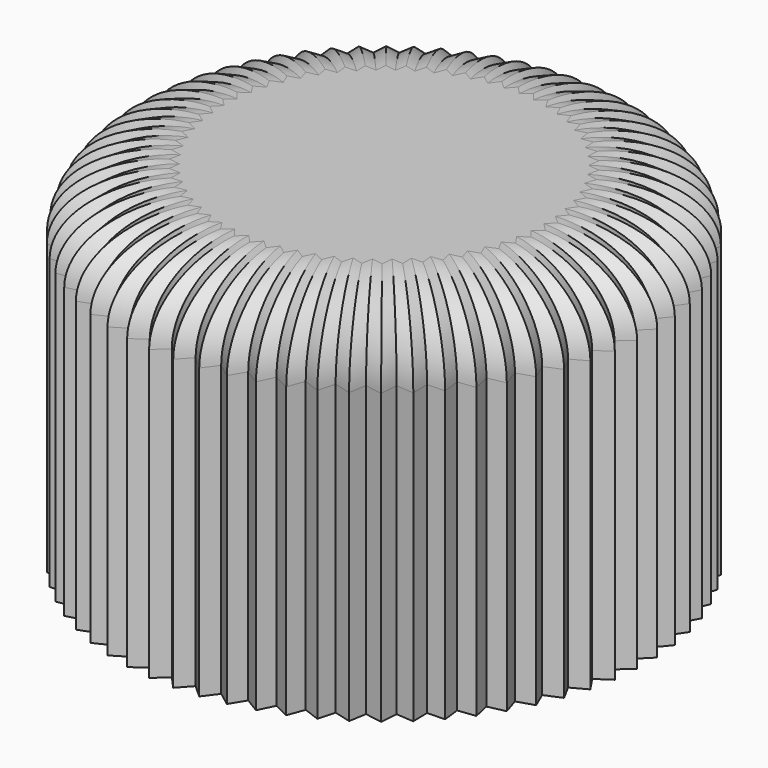
from build123d import *

# Parameters (mm, degrees)
F1_START = 1
F0_R     = 6
F1_DEPTH = 11
F2_START = 7
F0_R_2   = 4
F2_DEPTH = 5
F3_START = 11
F3_DEPTH = 1
F4_R     = 2


with BuildPart() as f1:
    # F0 (on Top) → F1 (new body)
    with BuildSketch(Plane.XY.offset(F1_START)):
        Polygon((-8.1901446762, 0.3901446762), (-7.8, 0), (-8.1901446762, -0.3901446762), (-7.7646809961, -0.7414371378), (-8.1159734577, -1.1669008179), (-7.6590438386, -1.476159706), (-7.9683027268, -1.9330893251), (-7.4840451942, -2.1975139434), (-7.7484698125, -2.681771476), (-7.2412698775, -2.8989671542), (-7.4584655557, -3.4061670891), (-6.9329164995, -3.5741668695), (-7.1009162799, -4.0997159257), (-6.5617775561, -4.2169983762), (-6.6790600066, -4.7561370999), (-6.131214139, -4.8216400925), (-6.1967171316, -5.3694859601), (-5.6451254972, -5.3826162896), (-5.6582558267, -5.9342079239), (-5.1079137248, -5.89484668), (-5.0685524808, -6.4451887819), (-4.5244438947, -6.353692426), (-4.4329475388, -6.8978010121), (-3.9, -6.7549981495), (-3.7571971374, -7.2879456883), (-3.2402371014, -7.0951295638), (-3.0474209769, -7.6120895997), (-2.5511301139, -7.371006386), (-2.3100469001, -7.867297249), (-1.838919697, -7.5801302329), (-1.5517526809, -8.0512574361), (-1.1100557385, -7.7206072467), (-0.7794055491, -8.1623041891), (-0.3711389434, -7.7911652456), (0, -8.1994318513), (0.3711389434, -7.7911652456), (0.7794055491, -8.1623041891), (1.1100557385, -7.7206072467), (1.5517526809, -8.0512574361), (1.838919697, -7.5801302329), (2.3100469001, -7.867297249), (2.5511301139, -7.371006386), (3.0474209769, -7.6120895997), (3.2402371014, -7.0951295638), (3.7571971374, -7.2879456883), (3.9, -6.7549981495), (4.4329475388, -6.8978010121), (4.5244438947, -6.353692426), (5.0685524808, -6.4451887819), (5.1079137248, -5.89484668), (5.6582558267, -5.9342079239), (5.6451254972, -5.3826162896), (6.1967171316, -5.3694859601), (6.131214139, -4.8216400925), (6.6790600066, -4.7561370999), (6.5617775561, -4.2169983762), (7.1009162799, -4.0997159257), (6.9329164995, -3.5741668695), (7.4584655557, -3.4061670891), (7.2412698775, -2.8989671542), (7.7484698125, -2.681771476), (7.4840451942, -2.1975139434), (7.9683027268, -1.9330893251), (7.6590438386, -1.476159706), (8.1159734577, -1.1669008179), (7.7646809961, -0.7414371378), (8.1901446762, -0.3901446762), (7.8, 0), (8.1901446762, 0.3901446762), (7.7646809961, 0.7414371378), (8.1159734577, 1.1669008179), (7.6590438386, 1.476159706), (7.9683027268, 1.9330893251), (7.4840451942, 2.1975139434), (7.7484698125, 2.681771476), (7.2412698775, 2.8989671542), (7.4584655557, 3.4061670891), (6.9329164995, 3.5741668695), (7.1009162799, 4.0997159257), (6.5617775561, 4.2169983762), (6.6790600066, 4.7561370999), (6.131214139, 4.8216400925), (6.1967171316, 5.3694859601), (5.6451254972, 5.3826162896), (5.6582558267, 5.9342079239), (5.1079137248, 5.89484668), (5.0685524808, 6.4451887819), (4.5244438947, 6.353692426), (4.4329475388, 6.8978010121), (3.9, 6.7549981495), (3.7571971374, 7.2879456883), (3.2402371014, 7.0951295638), (3.0474209769, 7.6120895997), (2.5511301139, 7.371006386), (2.3100469001, 7.867297249), (1.838919697, 7.5801302329), (1.5517526809, 8.0512574361), (1.1100557385, 7.7206072467), (0.7794055491, 8.1623041891), (0.3711389434, 7.7911652456), (0, 8.1994318513), (-0.3711389434, 7.7911652456), (-0.7794055491, 8.1623041891), (-1.1100557385, 7.7206072467), (-1.5517526809, 8.0512574361), (-1.838919697, 7.5801302329), (-2.3100469001, 7.867297249), (-2.5511301139, 7.371006386), (-3.0474209769, 7.6120895997), (-3.2402371014, 7.0951295638), (-3.7571971374, 7.2879456883), (-3.9, 6.7549981495), (-4.4329475388, 6.8978010121), (-4.5244438947, 6.353692426), (-5.0685524808, 6.4451887819), (-5.1079137248, 5.89484668), (-5.6582558267, 5.9342079239), (-5.6451254972, 5.3826162896), (-6.1967171316, 5.3694859601), (-6.131214139, 4.8216400925), (-6.6790600066, 4.7561370999), (-6.5617775561, 4.2169983762), (-7.1009162799, 4.0997159257), (-6.9329164995, 3.5741668695), (-7.4584655557, 3.4061670891), (-7.2412698775, 2.8989671542), (-7.7484698125, 2.681771476), (-7.4840451942, 2.1975139434), (-7.9683027268, 1.9330893251), (-7.6590438386, 1.476159706), (-8.1159734577, 1.1669008179), (-7.7646809961, 0.7414371378), align=None)
        Circle(F0_R, mode=Mode.SUBTRACT)
    extrude(amount=F1_DEPTH)

    # F0 (on Top) → F2 (join)
    with BuildSketch(Plane.XY.offset(F2_START)):
        Circle(F0_R)
        Circle(F0_R_2, mode=Mode.SUBTRACT)
        Circle(F0_R_2)
        with BuildLine():
            ThreePointArc((1.5, -2.5980762114), (-3, 0), (1.5, 2.5980762114))
            Line((1.5, 2.5980762114), (1.5, -2.5980762114))
        make_face(mode=Mode.SUBTRACT)
    extrude(amount=F2_DEPTH)

    # F0 (on Top) → F3 (join)
    with BuildSketch(Plane.XY.offset(F3_START)):
        with BuildLine():
            Line((1.5, -2.5980762114), (1.5, 2.5980762114))
            ThreePointArc((1.5, 2.5980762114), (-3, 0), (1.5, -2.5980762114))
        make_face()
    extrude(amount=F3_DEPTH)

    # F4
    f4_edges = [f1.edges().sort_by_distance(p)[0] for p in [
        (6.620419, 4.486568, 12),
        (6.405137, 4.788889, 12),
        (6.163966, 5.095563, 12),
        (5.920921, 5.376051, 12),
        (5.651691, 5.658412, 12),
        (5.383085, 5.914527, 12),
        (5.088233, 6.170018, 12),
        (4.796498, 6.399441, 12),
        (4.478696, 6.625747, 12),
        (4.166474, 6.8264, 12),
        (3.828599, 7.021472, 12),
        (3.498717, 7.191538, 12),
        (3.143829, 7.35361, 12),
        (2.799276, 7.491548, 12),
        (2.430589, 7.619152, 12),
        (2.074483, 7.723714, 12),
        (1.695336, 7.815694, 12),
        (1.330904, 7.885932, 12),
        (0.944731, 7.941456, 12),
        (0.575272, 7.976735, 12),
        (0.185569, 7.995299, 12),
        (-0.185569, 7.995299, 12),
        (-0.575272, 7.976735, 12),
        (-0.944731, 7.941456, 12),
        (-1.330904, 7.885932, 12),
        (-1.695336, 7.815694, 12),
        (-2.074483, 7.723714, 12),
        (-2.430589, 7.619152, 12),
        (-2.799276, 7.491548, 12),
        (-3.143829, 7.35361, 12),
        (-3.498717, 7.191538, 12),
        (-3.828599, 7.021472, 12),
        (-4.166474, 6.8264, 12),
        (-4.478696, 6.625747, 12),
        (-4.796498, 6.399441, 12),
        (-5.088233, 6.170018, 12),
        (-5.383085, 5.914527, 12),
        (-5.651691, 5.658412, 12),
        (-5.920921, 5.376051, 12),
        (-6.163966, 5.095563, 12),
        (-6.405137, 4.788889, 12),
        (-6.620419, 4.486568, 12),
        (-6.831347, 4.158357, 12),
        (-7.016916, 3.836941, 12),
        (-7.195691, 3.490167, 12),
        (-7.349868, 3.152567, 12),
        (-7.49487, 2.790369, 12),
        (-7.616258, 2.439643, 12),
        (-7.726174, 2.065302, 12),
        (-7.813673, 1.704625, 12),
        (-7.887509, 1.32153, 12),
        (-7.940327, 0.954169, 12),
        (-7.977413, 0.565791, 12),
        (-7.995072, 0.195072, 12),
        (-7.995072, -0.195072, 12),
        (-7.977413, -0.565791, 12),
        (-7.940327, -0.954169, 12),
        (-7.887509, -1.32153, 12),
        (-7.813673, -1.704625, 12),
        (-7.726174, -2.065302, 12),
        (-7.616258, -2.439643, 12),
        (-7.49487, -2.790369, 12),
        (-7.349868, -3.152567, 12),
        (-7.195691, -3.490167, 12),
        (-7.016916, -3.836941, 12),
        (-6.831347, -4.158357, 12),
        (-6.620419, -4.486568, 12),
        (-6.405137, -4.788889, 12),
        (-6.163966, -5.095563, 12),
        (-5.920921, -5.376051, 12),
        (-5.651691, -5.658412, 12),
        (-5.383085, -5.914527, 12),
        (-5.088233, -6.170018, 12),
        (-4.796498, -6.399441, 12),
        (-4.478696, -6.625747, 12),
        (-4.166474, -6.8264, 12),
        (-3.828599, -7.021472, 12),
        (-3.498717, -7.191538, 12),
        (-3.143829, -7.35361, 12),
        (-2.799276, -7.491548, 12),
        (-2.430589, -7.619152, 12),
        (-2.074483, -7.723714, 12),
        (-1.695336, -7.815694, 12),
        (-1.330904, -7.885932, 12),
        (-0.944731, -7.941456, 12),
        (-0.575272, -7.976735, 12),
        (-0.185569, -7.995299, 12),
        (0.185569, -7.995299, 12),
        (0.575272, -7.976735, 12),
        (0.944731, -7.941456, 12),
        (1.330904, -7.885932, 12),
        (1.695336, -7.815694, 12),
        (2.074483, -7.723714, 12),
        (2.430589, -7.619152, 12),
        (2.799276, -7.491548, 12),
        (3.143829, -7.35361, 12),
        (3.498717, -7.191538, 12),
        (3.828599, -7.021472, 12),
        (4.166474, -6.8264, 12),
        (4.478696, -6.625747, 12),
        (4.796498, -6.399441, 12),
        (5.088233, -6.170018, 12),
        (5.383085, -5.914527, 12),
        (5.651691, -5.658412, 12),
        (5.920921, -5.376051, 12),
        (6.163966, -5.095563, 12),
        (6.405137, -4.788889, 12),
        (6.620419, -4.486568, 12),
        (6.831347, -4.158357, 12),
        (7.016916, -3.836941, 12),
        (7.195691, -3.490167, 12),
        (7.349868, -3.152567, 12),
        (7.49487, -2.790369, 12),
        (7.616258, -2.439643, 12),
        (7.726174, -2.065302, 12),
        (7.813673, -1.704625, 12),
        (7.887509, -1.32153, 12),
        (7.940327, -0.954169, 12),
        (7.977413, -0.565791, 12),
        (7.995072, -0.195072, 12),
        (7.995072, 0.195072, 12),
        (7.977413, 0.565791, 12),
        (7.940327, 0.954169, 12),
        (7.887509, 1.32153, 12),
        (7.813673, 1.704625, 12),
        (7.726174, 2.065302, 12),
        (7.616258, 2.439643, 12),
        (7.49487, 2.790369, 12),
        (7.349868, 3.152567, 12),
        (7.195691, 3.490167, 12),
        (7.016916, 3.836941, 12),
        (6.831347, 4.158357, 12),
    ]]
    fillet(f4_edges, radius=F4_R)


solid = f1.part
